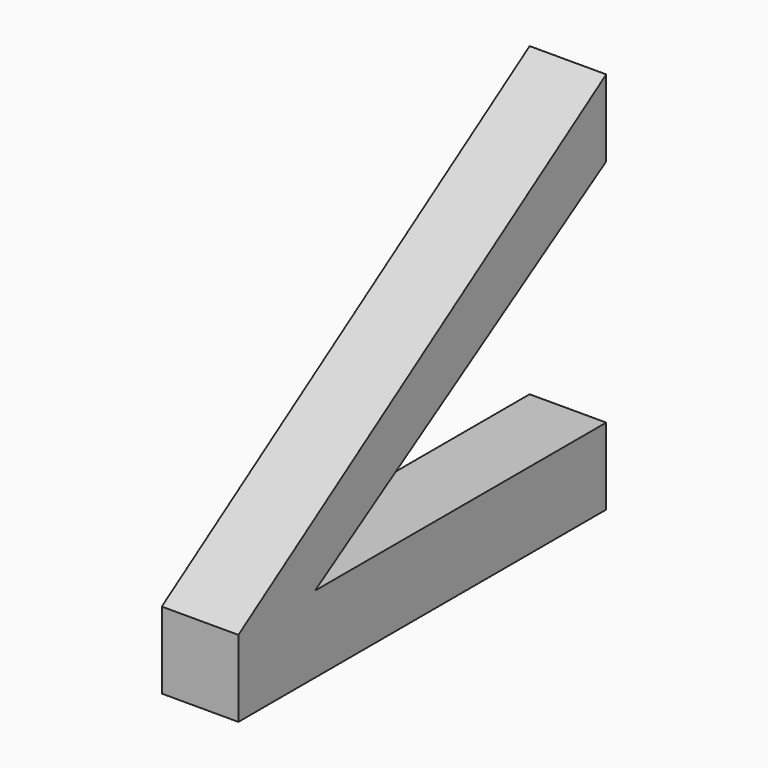
from build123d import *

# Parameters (mm, degrees)
F1_DEPTH = 101.6


with BuildPart() as f1:
    # F0 (on Right) → F1 (new body)
    with BuildSketch(Plane.YZ):
        Polygon((0, -51.999138), (-609.6, -458.399138), (-482.6, -458.399138), (0, -153.599138), align=None)
        Polygon((-609.6, -559.999138), (0, -559.999138), (0, -458.399138), (-482.6, -458.399138), (-609.6, -458.399138), align=None)
    extrude(amount=F1_DEPTH)


solid = f1.part
